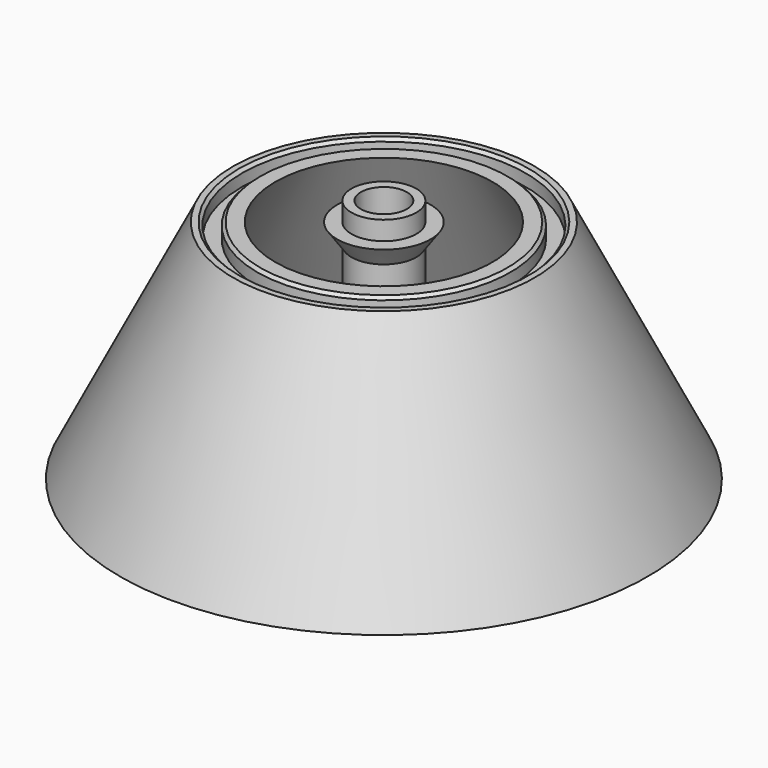
from build123d import *

# Parameters (mm, degrees)
F2_R     = 3.8735
F3_DEPTH = 41.276
F5_DEPTH = 3.175


with BuildPart() as f1:
    # F0 (on Front) → F1 (revolve)
    with BuildSketch(Plane.XZ):
        Polygon((-24.384, 38.1), (-25.4, 38.1), (-44.45, 0), (0, 0), (0, 41.275), (-5.461, 41.275), (-5.461, 38.1), (-7.874, 38.1), (-5.461, 34.653879), (-5.461, 3.175), (-35.762984, 3.175), (-18.300484, 38.1), (-20.828, 38.1), (-21.336, 37.592), (-21.336, 35.56), (-23.876, 35.56), (-23.876, 37.592), align=None)
    revolve(axis=Axis((0, 0, 21.25227), (0, 0, 1)))

    # F2 (on face) → F3 (cut, through all)
    with BuildSketch(Plane.XY.offset(41.275)):
        Circle(F2_R)
    extrude(amount=-F3_DEPTH, mode=Mode.SUBTRACT)

    # F4 (on face) → F5 (cut)
    with BuildSketch(Plane(origin=(0, 0, 0), x_dir=(1, 0, 0), z_dir=(0, 0, -1))):
        with BuildLine():
            ThreePointArc((-6.210474, 1.323825), (-5.399143, 3.342418), (-3.954071, 4.968684))
            ThreePointArc((-3.954071, 4.968684), (-3.20282, 5.829119), (-2.804688, 6.899734))
            ThreePointArc((-2.804688, 6.899734), (2.007902, 17.190565), (11.32741, 23.687409))
            ThreePointArc((11.32741, 23.687409), (13.423957, 26.641414), (11.387913, 29.637442))
            ThreePointArc((11.387913, 29.637442), (-10.902012, 29.819601), (-27.818336, 15.303682))
            ThreePointArc((-27.818336, 15.303682), (-28.138147, 14.451862), (-28.203233, 13.544315))
            ThreePointArc((-28.203233, 13.544315), (-21.766814, 1.757015), (-8.648102, -1.11828))
            ThreePointArc((-8.648102, -1.11828), (-7.068588, -0.257266), (-6.210474, 1.323825))
        make_face()
        with BuildLine():
            ThreePointArc((1.958771, -6.040341), (-0.195047, -6.347004), (-2.325971, -5.908668))
            ThreePointArc((-2.325971, -5.908668), (-3.446755, -5.688283), (-4.573001, -5.878798))
            ThreePointArc((-4.573001, -5.878798), (-15.891416, -6.856388), (-26.177603, -2.03388))
            ThreePointArc((-26.177603, -2.03388), (-29.78412, -1.695219), (-31.360734, -4.956499))
            ThreePointArc((-31.360734, -4.956499), (-20.373526, -24.35122), (0.655791, -31.743227))
            ThreePointArc((0.655791, -31.743227), (1.553394, -31.594281), (2.371896, -31.196874))
            ThreePointArc((2.371896, -31.196874), (9.361787, -19.729122), (5.29251, -6.930337))
            ThreePointArc((5.29251, -6.930337), (3.757093, -5.992944), (1.958771, -6.040341))
        make_face()
        with BuildLine():
            ThreePointArc((4.251703, 4.716516), (5.59419, 3.004586), (6.280042, 0.939984))
            ThreePointArc((6.280042, 0.939984), (6.649575, -0.140836), (7.377689, -1.020936))
            ThreePointArc((7.377689, -1.020936), (13.883515, -10.334176), (14.850193, -21.653529))
            ThreePointArc((14.850193, -21.653529), (16.360163, -24.946195), (19.972821, -24.680942))
            ThreePointArc((19.972821, -24.680942), (31.275538, -5.468381), (27.162545, 16.439545))
            ThreePointArc((27.162545, 16.439545), (26.584753, 17.142419), (25.831337, 17.652559))
            ThreePointArc((25.831337, 17.652559), (12.405027, 17.972106), (3.355593, 8.048616))
            ThreePointArc((3.355593, 8.048616), (3.311495, 6.25021), (4.251703, 4.716516))
        make_face()
    extrude(amount=-F5_DEPTH, mode=Mode.SUBTRACT)


solid = f1.part
